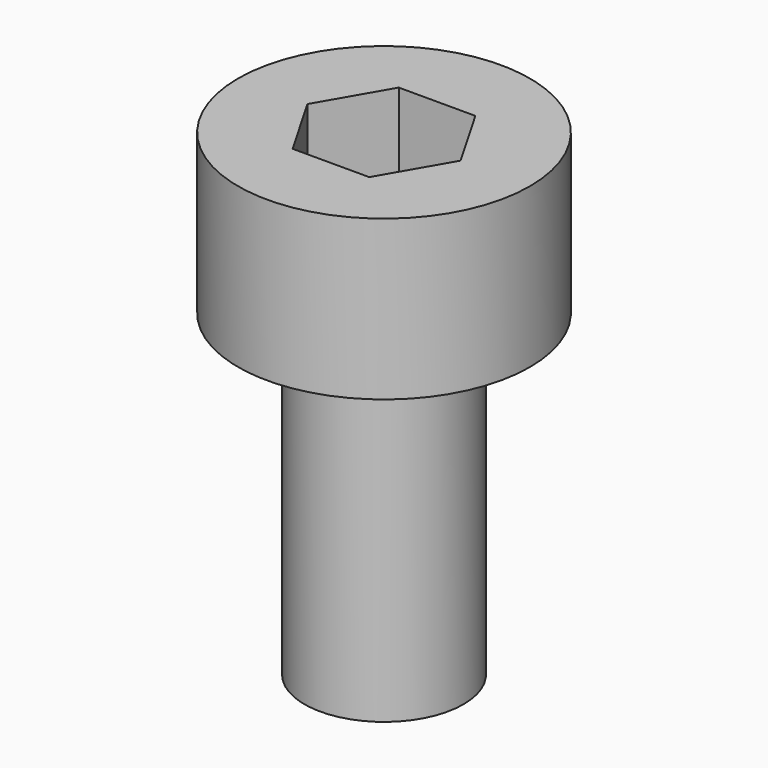
from build123d import *

# Parameters (mm, degrees)
SKETCH_R     = 2.75
PAD_DEPTH    = 3
SKETCH001_R  = 1.5
PAD001_DEPTH = 6
POCKET_DEPTH = 4


with BuildPart() as part:
    # Sketch → Pad (new body)
    with BuildSketch(Plane.XY):
        Circle(SKETCH_R)
    extrude(amount=PAD_DEPTH)

    # Sketch001 (on Face2 of Pad) → Pad001 (join)
    with BuildSketch(Plane(origin=(0, 0, 0), x_dir=(1, 0, 0), z_dir=(0, 0, -1))):
        Circle(SKETCH001_R)
    extrude(amount=PAD001_DEPTH)

    # Sketch002 (on DatumPlane) → Pocket (cut)
    with BuildSketch(Plane.XY.offset(3)):
        Polygon((0.721688, -1.25), (1.443376, 0), (0.721688, 1.25), (-0.721688, 1.25), (-1.443376, 0), (-0.721688, -1.25), align=None)
    extrude(amount=-POCKET_DEPTH, mode=Mode.SUBTRACT)


solid = part.part
